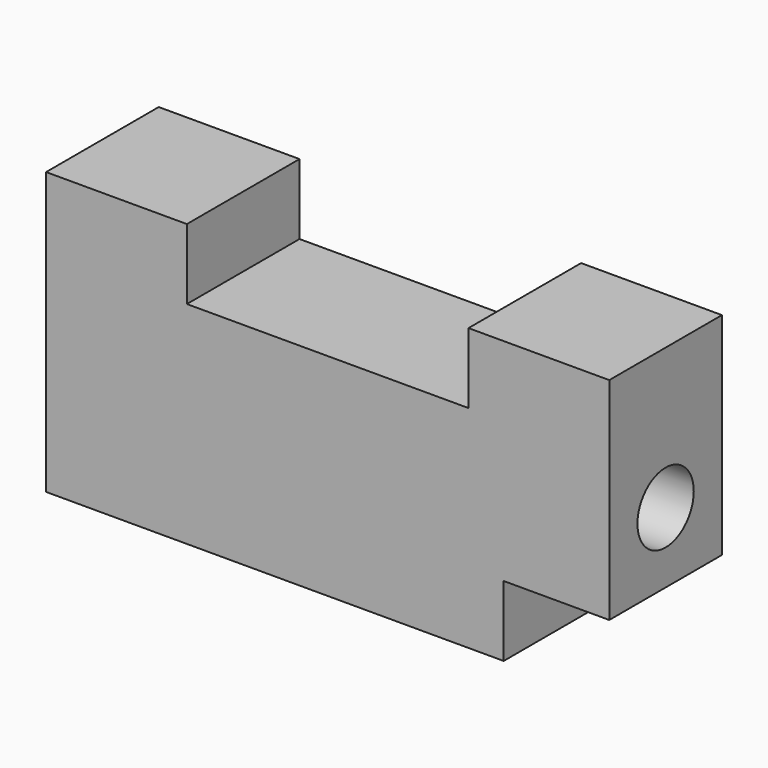
from build123d import *

# Parameters (mm, degrees)
F0_W     = 101.6
F0_H     = 50.8
F1_DEPTH = 25.4
F2_R     = 6.35
F3_DEPTH = 101.601
F4_W     = 25.4
F4_H     = 12.7
F5_DEPTH = 19.05
F6_W     = 50.8
F6_H     = 12.7
F7_DEPTH = 25.401


with BuildPart() as f1:
    # F0 (on Front) → F1 (new body)
    with BuildSketch(Plane.XZ):
        Rectangle(F0_W, F0_H)
    extrude(amount=F1_DEPTH)

    # F2 (on face) → F3 (cut, through all)
    with BuildSketch(Plane.YZ.offset(50.8)):
        with Locations((-12.7, 0)):
            Circle(F2_R)
    extrude(amount=-F3_DEPTH, mode=Mode.SUBTRACT)

    # F4 (on face) → F5 (cut)
    with BuildSketch(Plane.YZ.offset(50.8)):
        with Locations((-12.7, -19.05)):
            Rectangle(F4_W, F4_H)
    extrude(amount=-F5_DEPTH, mode=Mode.SUBTRACT)

    # F6 (on face) → F7 (cut, through all)
    with BuildSketch(Plane.XZ.offset(25.4)):
        with Locations((0, 19.05)):
            Rectangle(F6_W, F6_H)
    extrude(amount=-F7_DEPTH, mode=Mode.SUBTRACT)


solid = f1.part
